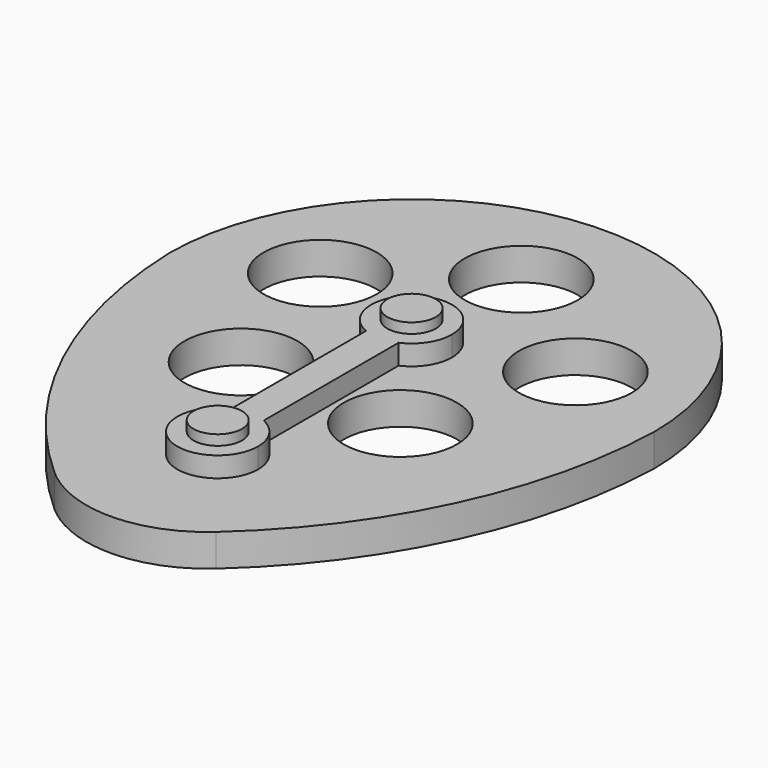
from build123d import *

# Parameters (mm, degrees)
F0_R     = 8.89
F1_DEPTH = 5.08
F3_R     = 19.05
F4_DEPTH = 3.175
F5_R     = 3.81
F6_DEPTH = 1.6002


with BuildPart() as f1:
    # F0 (on Top) → F1 (new body)
    with BuildSketch(Plane.XY):
        with BuildLine():
            ThreePointArc((0, -63.5), (27.2824792884, -36.689487573), (38.1, 0))
            ThreePointArc((38.1, 0), (0, 38.1), (-38.1, 0))
            ThreePointArc((-38.1, 0), (-27.2824792884, -36.689487573), (0, -63.5))
        make_face()
        with Locations((-13.1279943906, -17.1087353843)):
            Circle(F0_R, mode=Mode.SUBTRACT)
        with Locations((12.3692268928, -17.6650867319)):
            Circle(F0_R, mode=Mode.SUBTRACT)
        with Locations((-20.264554991, 7.3756948274)):
            Circle(F0_R, mode=Mode.SUBTRACT)
        with Locations((0, 21.5650889905)):
            Circle(F0_R, mode=Mode.SUBTRACT)
        with Locations((20.5669909147, 6.4847473263)):
            Circle(F0_R, mode=Mode.SUBTRACT)
    extrude(amount=F1_DEPTH)

    # F3
    f3_edges = [f1.edges().sort_by_distance(p)[0] for p in [
        (0, -63.5, 2.54),
    ]]
    fillet(f3_edges, radius=F3_R)

    # F2 (on face) → F4 (join)
    with BuildSketch(Plane.XY.offset(5.08)):
        with BuildLine():
            ThreePointArc((2.4886815787, -5.842), (5.2974346633, -3.5013834391), (6.35, 0))
            ThreePointArc((6.35, 0), (-3.5013834391, 5.2974346633), (-2.4886815787, -5.842))
            ThreePointArc((-2.4886815787, -5.842), (0, -6.35), (2.4886815787, -5.842))
        make_face()
        with BuildLine():
            ThreePointArc((2.4886815787, -5.842), (0, -6.35), (-2.4886815787, -5.842))
            Line((-2.4886815787, -5.842), (-2.4886815787, -32.258))
            ThreePointArc((-2.4886815787, -32.258), (-1.27, -31.8782960533), (0, -31.75))
            ThreePointArc((0, -31.75), (1.3248127312, -31.8897366218), (2.5913184213, -32.3027964639))
            Line((2.5913184213, -32.3027964639), (2.5913184213, -5.842))
            Line((2.5913184213, -5.842), (2.4886815787, -5.842))
        make_face()
        with BuildLine():
            ThreePointArc((0, -31.75), (-1.27, -31.8782960533), (-2.4886815787, -32.258))
            ThreePointArc((-2.4886815787, -32.258), (-3.5013834391, -43.3974346633), (6.35, -38.1))
            ThreePointArc((6.35, -38.1), (5.3281034138, -34.6454647183), (2.5913184213, -32.3027964639))
            Line((2.5913184213, -32.3027964639), (0, -31.75))
        make_face()
        with BuildLine():
            ThreePointArc((2.5913184213, -32.3027964639), (1.3248127312, -31.8897366218), (0, -31.75))
            Line((0, -31.75), (2.5913184213, -32.3027964639))
        make_face()
    extrude(amount=F4_DEPTH)

    # F5 (on face) → F6 (join)
    with BuildSketch(Plane.XY.offset(8.255)):
        with Locations((0, -38.1)):
            Circle(F5_R)
        Circle(F5_R)
    extrude(amount=F6_DEPTH)


solid = f1.part
